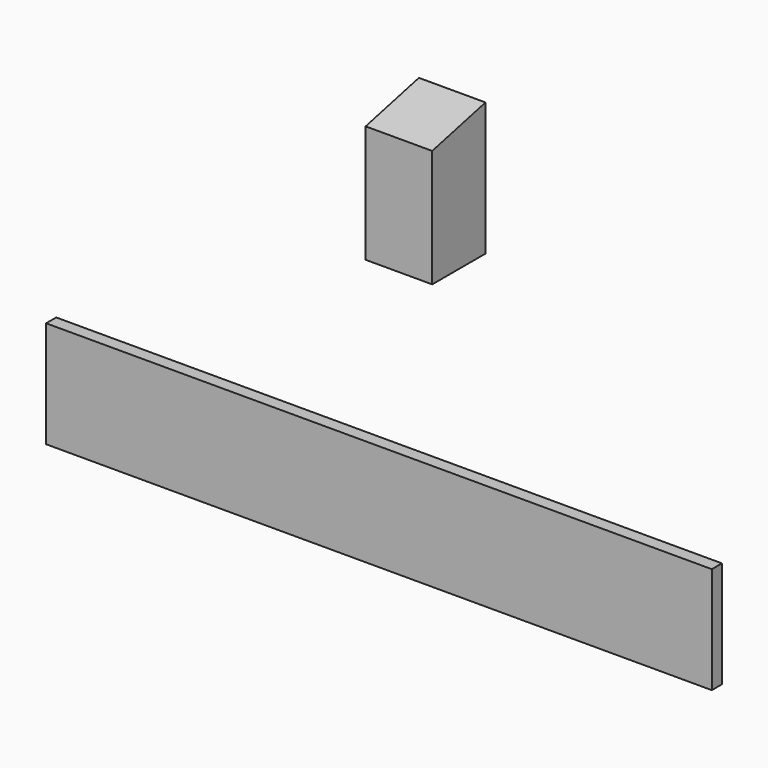
from build123d import *

# Parameters (mm, degrees)
F1_DEPTH = 100
F2_DEPTH = 100
F3_DEPTH = 1000


with BuildPart() as f1:
    # F0 (on Right) → F1 (new body)
    with BuildSketch(Plane.YZ):
        Polygon((681, 200), (581, 176.50514), (581, 0), (681, 0), align=None)
    extrude(amount=F1_DEPTH)


with BuildPart() as f2:
    # F0 (on Right) → F2 (new body)
    with BuildSketch(Plane.YZ):
        Polygon((0, 40), (0, 0), (100, 0), (100, 62.857143), align=None)
    extrude(amount=F2_DEPTH)


with BuildPart() as f3:
    # F0 (on Right) → F3 (new body)
    with BuildSketch(Plane.YZ):
        Polygon((-19, 0), (0, 0), (0, 40), (0, 59.517009), (0, 160), (-19, 160), align=None)
    extrude(amount=F3_DEPTH)


solid = Compound([f1.part, f2.part, f3.part])
